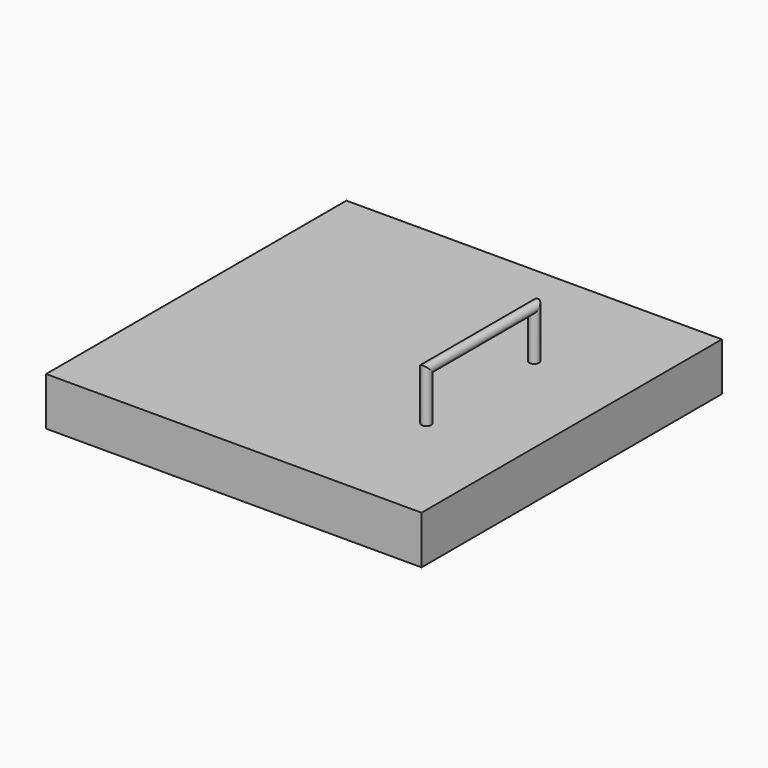
from build123d import *

# Parameters (mm, degrees)
F0_W     = 390
F0_H     = 390
F1_DEPTH = 50
F2_W     = 380
F2_H     = 380
F3_DEPTH = 20
F6_R     = 5


with BuildPart() as f1:
    # F0 (on Top) → F1 (new body)
    with BuildSketch(Plane.XY):
        Rectangle(F0_W, F0_H)
    extrude(amount=F1_DEPTH)

    # F2 (on face) → F3 (cut)
    with BuildSketch(Plane(origin=(0, 0, 0), x_dir=(1, 0, 0), z_dir=(0, 0, -1))):
        Rectangle(F2_W, F2_H)
    extrude(amount=-F3_DEPTH, mode=Mode.SUBTRACT)

    # F7: sweep along a path in F5
    with BuildLine(Plane.YZ.offset(100)) as f7_path:
        Line((70, 50), (70, 100))
        Line((70, 100), (-70, 100))
        Line((-70, 100), (-70, 50))
    # F6 (on face) → F7 (sweep)
    with BuildSketch(Plane.XY.offset(50)):
        with Locations((100, 70)):
            Circle(F6_R)
    sweep(path=f7_path.line, transition=Transition.RIGHT)


solid = f1.part
